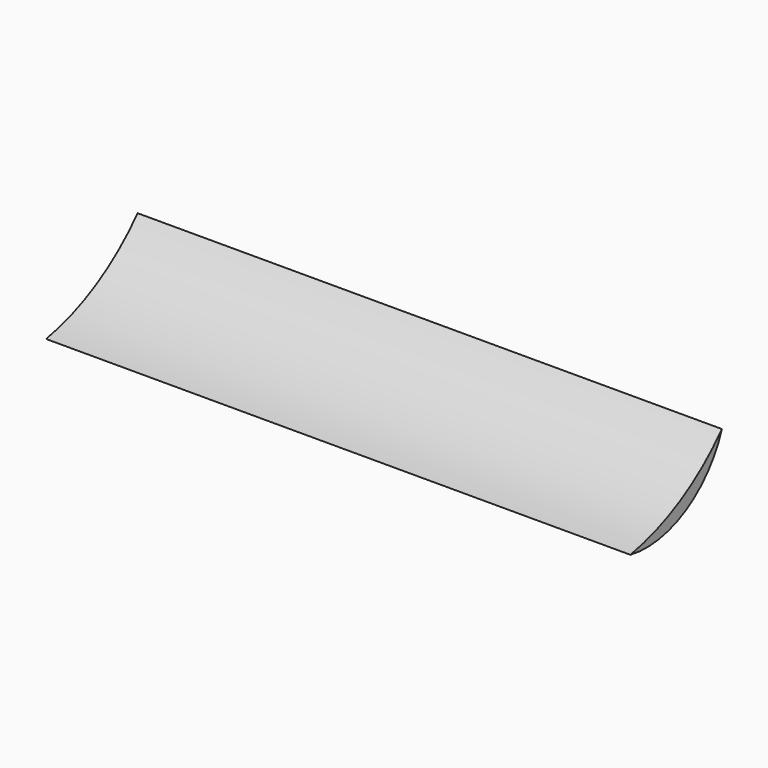
from build123d import *

# Parameters (mm, degrees)
F1_DEPTH = 258.631229


with BuildPart() as f1:
    # F0 (on Right) → F1 (new body)
    with BuildSketch(Plane.YZ):
        with BuildLine():
            ThreePointArc((50.668821, 28.420717), (27.721058, 9.955413), (0, 0))
            ThreePointArc((0, 0), (30.626522, 4.775514), (50.668821, 28.420717))
        make_face()
    extrude(amount=F1_DEPTH)


solid = f1.part
